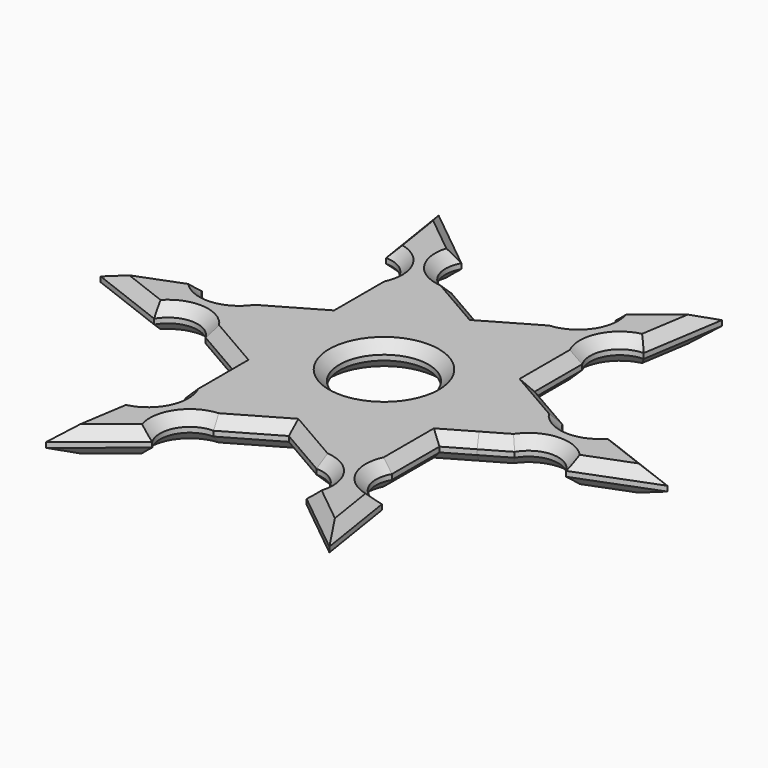
from build123d import *

# Parameters (mm, degrees)
F0_R     = 11
F1_DEPTH = 6.35
F2_SIZE  = 2.54


with BuildPart() as f1:
    # F0 (on Top) → F1 (new body)
    with BuildSketch(Plane.XY):
        Polygon((-41.7423269987, 30.386245353), (-16.3423269987, 45.0509421904), (-22.6923274444, 48.717116657), (-29.0423278901, 52.3832911237), (-41.7423269987, 45.0509425335), (-41.7423269987, 37.7185939432), align=None)
        Polygon((9.0576730013, 1.0568516781), (9.0576730013, 30.386245353), (-16.3423269987, 45.0509421904), (-41.7423269987, 30.386245353), (-41.7423269987, 1.0568516781), (-16.3423269987, -13.6078451593), align=None)
        with Locations((-16.3423269987, 15.7215485155)):
            Circle(F0_R, mode=Mode.SUBTRACT)
        Polygon((-41.7423269987, 1.0568516781), (-41.7423269987, 30.386245353), (-48.092324038, 26.720072853), (-54.4423210773, 23.053900353), (-54.4423210773, 8.3891966781), (-48.092324038, 4.7230241781), align=None)
        Polygon((-22.692324038, -17.2740176593), (-16.3423269987, -13.6078451593), (-41.7423269987, 1.0568516781), (-41.7423269987, -6.2754933219), (-41.7423269987, -13.6078383219), (-29.0423210773, -20.9401901593), align=None)
        Polygon((9.0576730013, -6.2754933219), (9.0576730013, 1.0568516781), (-16.3423269987, -13.6078451593), (-9.9923299594, -17.2740176593), (-3.6423329201, -20.9401901593), (9.0576730013, -13.6078383219), align=None)
        Polygon((15.4076717053, 26.7200718918), (9.0576730013, 30.386245353), (9.0576730013, 1.0568516781), (15.4076710394, 4.7230247548), (21.7576690776, 8.3891978315), (21.7576704094, 23.0538984307), align=None)
        Polygon((-16.3423269987, 45.0509421904), (9.0576730013, 30.386245353), (9.0576730013, 37.7185939432), (9.0576730013, 45.0509425335), (-3.6423261074, 52.3832911237), (-9.992326553, 48.717116657), align=None)
        Polygon((-35.3923274444, 63.381813666), (-51.2673278158, 76.2134228412), (-41.7423271473, 59.7156392851), align=None)
        Polygon((-41.7423271473, 59.7156392851), (-51.2673278158, 76.2134228412), (-48.0923268502, 56.0494649042), align=None)
        with BuildLine():
            Line((-41.7423269987, 45.0509425335), (-29.0423278901, 52.3832911237))
            ThreePointArc((-29.0423278901, 52.3832911237), (-35.3923274939, 56.0494655046), (-35.3923274444, 63.381813666))
            Line((-35.3923274444, 63.381813666), (-41.7423271473, 59.7156392851))
            Line((-41.7423271473, 59.7156392851), (-48.0923268502, 56.0494649042))
            ThreePointArc((-48.0923268502, 56.0494649042), (-41.7423271473, 52.3832906948), (-41.7423269987, 45.0509425335))
        make_face()
        Polygon((-67.1423210773, 23.053900353), (-86.1923210773, 15.7215485155), (-67.1423210773, 15.7215485155), align=None)
        Polygon((-67.1423210773, 15.7215485155), (-86.1923210773, 15.7215485155), (-67.1423210773, 8.3891966781), align=None)
        with BuildLine():
            Line((-54.4423210773, 8.3891966781), (-54.4423210773, 23.053900353))
            ThreePointArc((-54.4423210773, 23.053900353), (-60.7923210773, 19.3877261436), (-67.1423210773, 23.053900353))
            Line((-67.1423210773, 23.053900353), (-67.1423210773, 15.7215485155))
            Line((-67.1423210773, 15.7215485155), (-67.1423210773, 8.3891966781))
            ThreePointArc((-67.1423210773, 8.3891966781), (-60.7923210773, 12.0553708875), (-54.4423210773, 8.3891966781))
        make_face()
        with BuildLine():
            ThreePointArc((-35.3923210773, -31.9387127874), (-35.3923181166, -24.606366078), (-29.0423210773, -20.9401901593))
            Line((-29.0423210773, -20.9401901593), (-41.7423269987, -13.6078383219))
            ThreePointArc((-41.7423269987, -13.6078383219), (-41.7423284791, -20.9401858859), (-48.0923269987, -24.6063609499))
            Line((-48.0923269987, -24.6063609499), (-41.742324038, -28.2725368686))
            Line((-41.742324038, -28.2725368686), (-35.3923210773, -31.9387127874))
        make_face()
        Polygon((-48.0923269987, -24.6063609499), (-51.267324038, -44.7703208107), (-41.742324038, -28.2725368686), align=None)
        Polygon((-51.267324038, -44.7703208107), (-35.3923210773, -31.9387127874), (-41.742324038, -28.2725368686), align=None)
        Polygon((18.5826774423, -44.7703233748), (15.4076848441, -24.6063609499), (9.0576774423, -28.2725394327), align=None)
        Polygon((2.7076700406, -31.9387179154), (18.5826774423, -44.7703233748), (9.0576774423, -28.2725394327), align=None)
        with BuildLine():
            ThreePointArc((15.4076848441, -24.6063609499), (9.0576744816, -20.9401927233), (9.0576730013, -13.6078383219))
            Line((9.0576730013, -13.6078383219), (-3.6423329201, -20.9401901593))
            ThreePointArc((-3.6423329201, -20.9401901593), (2.7076700406, -24.606366078), (2.7076700406, -31.9387179154))
            Line((2.7076700406, -31.9387179154), (9.0576774423, -28.2725394327))
            Line((9.0576774423, -28.2725394327), (15.4076848441, -24.6063609499))
        make_face()
        Polygon((34.457666414, 8.3891966781), (53.5076670799, 15.7215485155), (34.4576670799, 15.7215485155), align=None)
        with BuildLine():
            ThreePointArc((34.4576677458, 23.053900353), (28.1076696325, 19.3877274892), (21.7576704094, 23.0538984307))
            Line((21.7576704094, 23.0538984307), (21.7576690776, 8.3891978315))
            ThreePointArc((21.7576690776, 8.3891978315), (28.1076680788, 12.0553691574), (34.457666414, 8.3891966781))
            Line((34.457666414, 8.3891966781), (34.4576670799, 15.7215485155))
            Line((34.4576670799, 15.7215485155), (34.4576677458, 23.053900353))
        make_face()
        Polygon((34.4576670799, 15.7215485155), (53.5076670799, 15.7215485155), (34.4576677458, 23.053900353), align=None)
        with BuildLine():
            Line((-3.6423261074, 52.3832911237), (9.0576730013, 45.0509425335))
            ThreePointArc((9.0576730013, 45.0509425335), (9.0576733974, 52.3832904375), (15.4076728527, 56.0494645611))
            Line((15.4076728527, 56.0494645611), (9.0576723328, 59.7156394138))
            Line((9.0576723328, 59.7156394138), (2.7076718128, 63.3818142664))
            ThreePointArc((2.7076718128, 63.3818142664), (2.7076727042, 56.0494663623), (-3.6423261074, 52.3832911237))
        make_face()
        Polygon((9.0576723328, 59.7156394138), (18.5826730013, 76.2134229699), (2.7076718128, 63.3818142664), align=None)
        Polygon((9.0576723328, 59.7156394138), (15.4076728527, 56.0494645611), (18.5826730013, 76.2134229699), align=None)
    extrude(amount=F1_DEPTH)

    # F2
    f2_edges = [f1.edges().sort_by_distance(p)[0] for p in [
        (-41.742327, 37.718594, 6.35),
        (-48.092324, 26.720073, 6.35),
        (-60.792321, 19.387726, 6.35),
        (-76.667321, 19.387724, 6.35),
        (-76.667321, 12.055373, 6.35),
        (-60.792321, 12.055371, 6.35),
        (-48.092324, 4.723024, 6.35),
        (-41.742327, -6.275493, 6.35),
        (-41.742328, -20.940186, 6.35),
        (-49.679826, -34.688341, 6.35),
        (-43.329823, -38.354517, 6.35),
        (-35.392318, -24.606366, 6.35),
        (-22.692324, -17.274018, 6.35),
        (-9.99233, -17.274018, 6.35),
        (2.70767, -24.606366, 6.35),
        (10.645174, -38.354521, 6.35),
        (16.995181, -34.688342, 6.35),
        (9.057674, -20.940193, 6.35),
        (9.057673, -6.275493, 6.35),
        (15.407671, 4.723025, 6.35),
        (28.107668, 12.055369, 6.35),
        (43.982667, 12.055373, 6.35),
        (43.982667, 19.387724, 6.35),
        (28.10767, 19.387727, 6.35),
        (15.407672, 26.720072, 6.35),
        (9.057673, 37.718594, 6.35),
        (9.057673, 52.38329, 6.35),
        (16.995173, 66.131444, 6.35),
        (10.645172, 69.797619, 6.35),
        (2.707673, 56.049466, 6.35),
        (-9.992327, 48.717117, 6.35),
        (-22.692327, 48.717117, 6.35),
        (-35.392327, 56.049466, 6.35),
        (-43.329828, 69.797618, 6.35),
        (-49.679827, 66.131444, 6.35),
        (-41.742327, 52.383291, 6.35),
        (-27.342327, 15.721549, 6.35),
        (-41.742327, 37.718594, 0),
        (-48.092324, 26.720073, 0),
        (-60.792321, 19.387726, 0),
        (-76.667321, 19.387724, 0),
        (-76.667321, 12.055373, 0),
        (-60.792321, 12.055371, 0),
        (-48.092324, 4.723024, 0),
        (-41.742327, -6.275493, 0),
        (-41.742328, -20.940186, 0),
        (-49.679826, -34.688341, 0),
        (-43.329823, -38.354517, 0),
        (-35.392318, -24.606366, 0),
        (-22.692324, -17.274018, 0),
        (-9.99233, -17.274018, 0),
        (2.70767, -24.606366, 0),
        (10.645174, -38.354521, 0),
        (16.995181, -34.688342, 0),
        (9.057674, -20.940193, 0),
        (9.057673, -6.275493, 0),
        (15.407671, 4.723025, 0),
        (28.107668, 12.055369, 0),
        (43.982667, 12.055373, 0),
        (43.982667, 19.387724, 0),
        (28.10767, 19.387727, 0),
        (15.407672, 26.720072, 0),
        (9.057673, 37.718594, 0),
        (9.057673, 52.38329, 0),
        (16.995173, 66.131444, 0),
        (10.645172, 69.797619, 0),
        (2.707673, 56.049466, 0),
        (-9.992327, 48.717117, 0),
        (-22.692327, 48.717117, 0),
        (-35.392327, 56.049466, 0),
        (-43.329828, 69.797618, 0),
        (-49.679827, 66.131444, 0),
        (-41.742327, 52.383291, 0),
        (-27.342327, 15.721549, 0),
    ]]
    chamfer(f2_edges, length=F2_SIZE)


solid = f1.part
